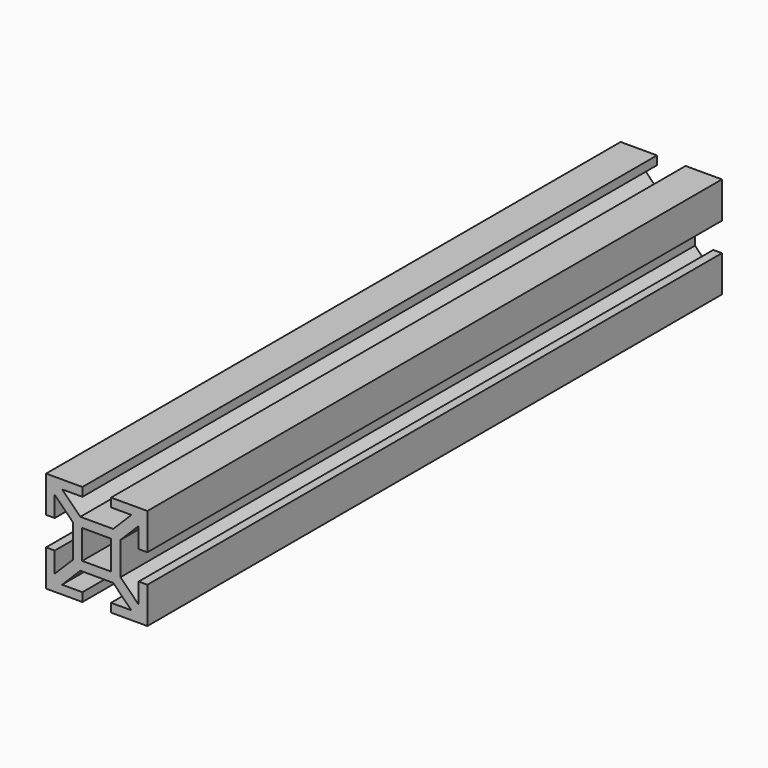
from build123d import *

# Parameters (mm, degrees)
F1_DEPTH = 1500


with BuildPart() as f1:
    # F0 (on Front) → F1 (new body)
    with BuildSketch(Plane.XZ):
        Polygon((34.308787, 49.557123), (0, 49.557123), (-34.308787, 49.557123), (-72.429646, 87.677982), (-29.86135, 87.677982), (-29.86135, 105.7854), (-105.7854, 105.7854), (-105.7854, 29.86135), (-87.677982, 29.86135), (-87.677982, 72.429646), (-49.557123, 34.308787), (-49.557123, 0), (-49.557123, -34.308787), (-87.677982, -72.429646), (-87.677982, -29.86135), (-105.7854, -29.86135), (-105.7854, -105.7854), (-29.86135, -105.7854), (-29.86135, -87.677982), (-72.429646, -87.677982), (-34.308787, -49.557123), (0, -49.557123), (34.308787, -49.557123), (72.429646, -87.677982), (29.86135, -87.677982), (29.86135, -105.7854), (105.7854, -105.7854), (105.7854, -29.86135), (87.677982, -29.86135), (87.677982, -72.429646), (49.557123, -34.308787), (49.557123, 0), (49.557123, 34.308787), (87.677982, 72.429646), (87.677982, 29.86135), (105.7854, 29.86135), (105.7854, 105.7854), (29.86135, 105.7854), (29.86135, 87.677982), (72.429646, 87.677982), align=None)
        Polygon((-30.270789, 30.270789), (0, 30.270789), (30.270789, 30.270789), (30.270789, 0), (30.270789, -30.270789), (0, -30.270789), (-30.270789, -30.270789), (-30.270789, 0), align=None, mode=Mode.SUBTRACT)
    extrude(amount=F1_DEPTH)


solid = f1.part
